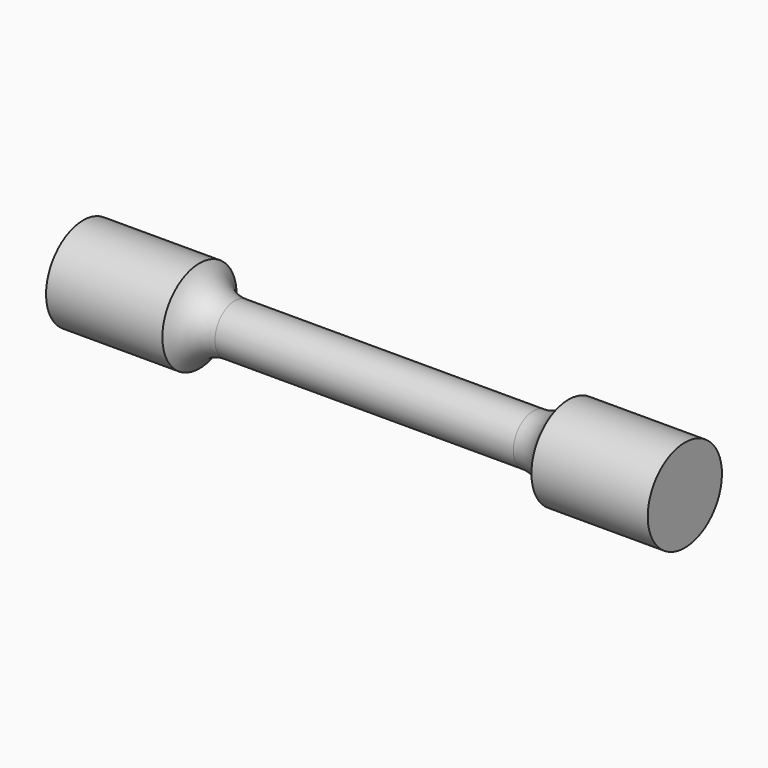
from build123d import *


with BuildPart() as f1:
    # F0 (on Front) → F1 (revolve)
    with BuildSketch(Plane.XZ):
        with BuildLine():
            Line((37.5, 6.25), (0, 6.25))
            Line((0, 6.25), (-37.5, 6.25))
            ThreePointArc((-37.5, 6.25), (-42.699473, 7.708017), (-46.382762, 11.656904))
            Line((-46.382762, 11.656904), (-75.620078, 11.656904))
            Line((-75.620078, 11.656904), (-75.620078, 0))
            Line((-75.620078, 0), (0, 0))
            Line((0, 0), (75.620078, 0))
            Line((75.620078, 0), (75.620078, 11.656904))
            Line((75.620078, 11.656904), (46.382762, 11.656904))
            ThreePointArc((46.382762, 11.656904), (42.699473, 7.708017), (37.5, 6.25))
        make_face()
    revolve(axis=Axis((37.810039, 0, 0), (-1, 0, 0)))


solid = f1.part
